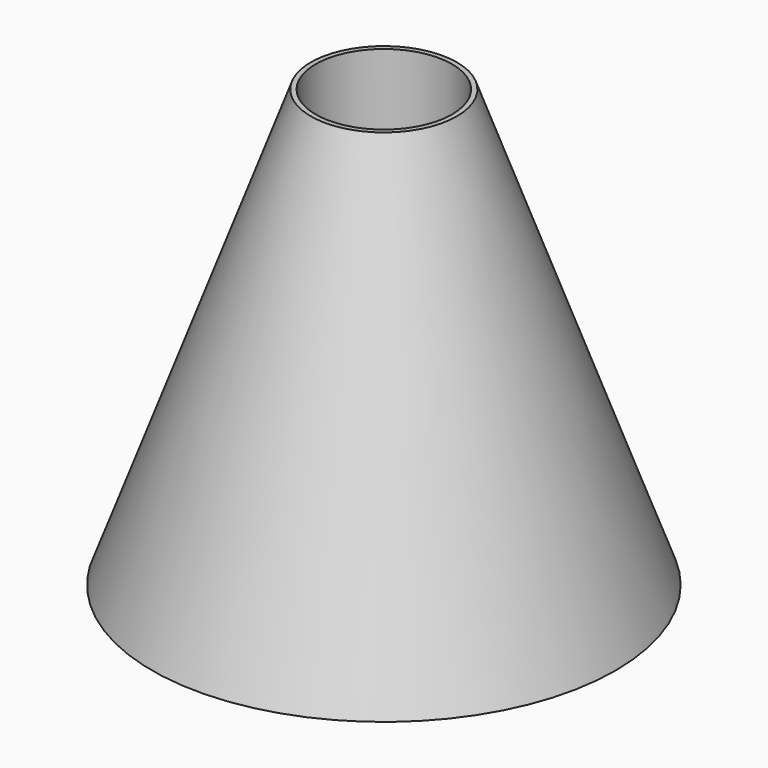
from build123d import *

# Parameters (mm, degrees)
F2_R     = 26.8
F0_R     = 85
F4_R     = 25
F5_DEPTH = 158.2
F6_T     = -1.8


with BuildPart() as f3:
    # F2 (on offset) → F3 section 0
    with BuildSketch(Plane.XY.offset(160)):
        Circle(F2_R)
    # F0 (on Top) → F3 section 1
    with BuildSketch(Plane.XY):
        Circle(F0_R)
    loft()

    # F4 (on offset) → F5 (cut)
    with BuildSketch(Plane.XY.offset(160)):
        Circle(F4_R)
    extrude(amount=-F5_DEPTH, mode=Mode.SUBTRACT)

    # F6
    f6_openings = [f3.faces().sort_by_distance(p)[0] for p in [
        (0, 0, 0),
    ]]
    offset(amount=F6_T, openings=f6_openings, kind=Kind.INTERSECTION)


solid = f3.part
